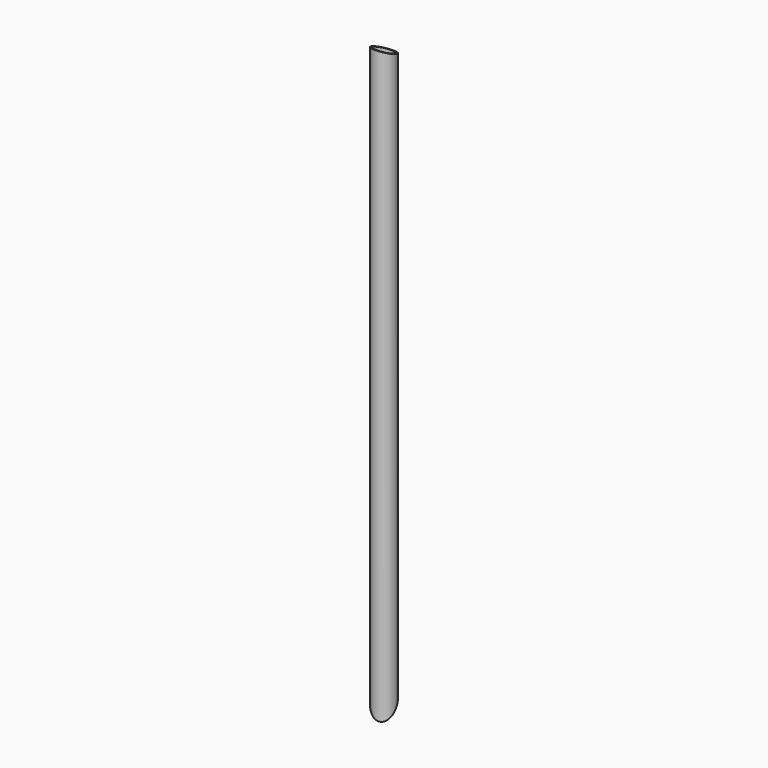
from build123d import *

# Parameters (mm, degrees)
F0_R          = 24.13
F0_R_2        = 20.447
F1_DEPTH      = 1308.1
F3_DEPTH      = 24.131
F3_DEPTH_BACK = 24.131
F5_DEPTH      = 24.131
F5_DEPTH_BACK = 24.131
F8_W          = 178.4191885963
F8_H          = 167.3920117319
F9_DEPTH      = 50.8
F9_DEPTH_BACK = 20.32


with BuildPart() as f1:
    # F0 (on Top) → F1 (new body)
    with BuildSketch(Plane.XY):
        Circle(F0_R)
        Circle(F0_R_2, mode=Mode.SUBTRACT)
    extrude(amount=F1_DEPTH)

    # F2 (on Right) → F3 (cut, two sides)
    with BuildSketch(Plane.YZ) as f3_sk:
        Polygon((24.13, 1288.3563127231), (24.13, 1308.1), (-24.13, 1308.1), align=None)
    extrude(amount=-F3_DEPTH, mode=Mode.SUBTRACT)
    extrude(f3_sk.sketch, amount=F3_DEPTH_BACK, mode=Mode.SUBTRACT)

    # F4 (on Front) → F5 (cut, two sides)
    with BuildSketch(Plane.XZ) as f5_sk:
        Polygon((-28.575, 0), (28.575, 0), (-28.575, 29.0972948719), align=None)
    extrude(amount=F5_DEPTH, mode=Mode.SUBTRACT)
    extrude(f5_sk.sketch, amount=-F5_DEPTH_BACK, mode=Mode.SUBTRACT)

    # F8 (on line) → F9 (cut, two sides)
    with BuildSketch(Plane(origin=(2.9412132624, -6.4824828952, 5.7768372862), x_dir=(-0.9471380058, -0.2395200516, 0.2134472836), z_dir=(-0.3208264297, 0.7071067812, -0.6301352252))) as f9_sk:
        with Locations((5.3417463787, 7.3568988591)):
            Rectangle(F8_W, F8_H)
    extrude(amount=F9_DEPTH, mode=Mode.SUBTRACT)
    extrude(f9_sk.sketch, amount=-F9_DEPTH_BACK, mode=Mode.SUBTRACT)


solid = f1.part
